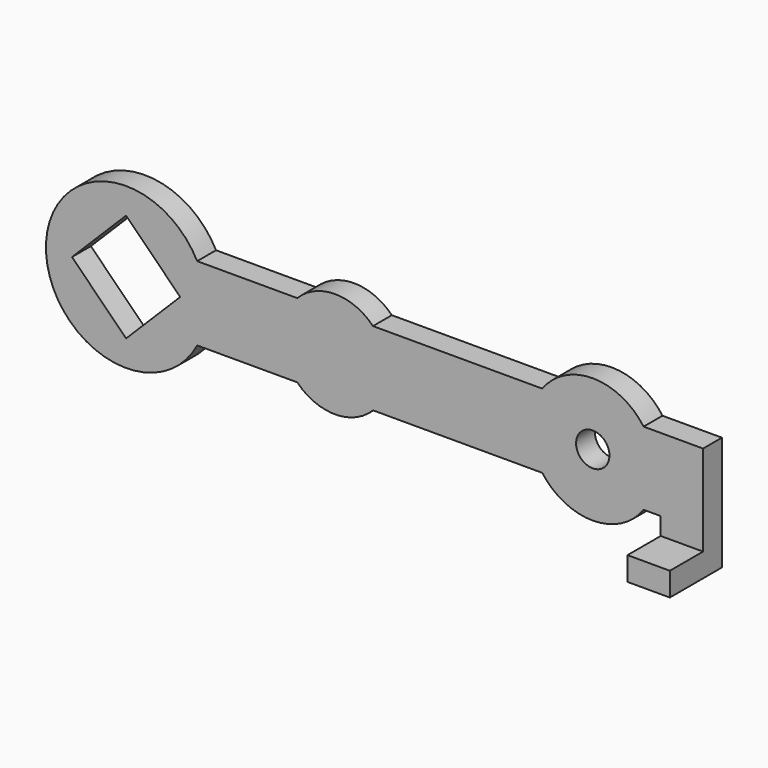
from build123d import *

# Parameters (mm, degrees)
F0_R     = 2.05
F0_W     = 5.2
F0_H     = 2.15
F1_DEPTH = 2.9
F0_H_2   = 2.9
F2_DEPTH = 8


with BuildPart() as f1:
    # F0 (on Front) → F1 (new body)
    with BuildSketch(Plane.XZ):
        with BuildLine():
            Line((25.45, 4.556051), (4.65, 4.556051))
            ThreePointArc((4.65, 4.556051), (0, 6.51), (-4.65, 4.556051))
            Line((-4.65, 4.556051), (-16.95, 4.556051))
            ThreePointArc((-16.95, 4.556051), (-35.532978, 0), (-16.95, -4.556051))
            Line((-16.95, -4.556051), (-4.65, -4.556051))
            ThreePointArc((-4.65, -4.556051), (0, -6.51), (4.65, -4.556051))
            Line((4.65, -4.556051), (25.45, -4.556051))
            ThreePointArc((25.45, -4.556051), (31.693638, -7.699915), (37.907447, -4.497499))
            Line((37.907447, -4.497499), (37.907447, 0))
            Line((37.907447, 0), (37.907447, 4.497499))
            ThreePointArc((37.907447, 4.497499), (31.693638, 7.699915), (25.45, 4.556051))
        make_face()
        Polygon((-32.329781, 0), (-25.682978, 6.646804), (-19.036174, 0), (-25.682978, -6.646804), align=None, mode=Mode.SUBTRACT)
        with Locations((31.657447, 0)):
            Circle(F0_R, mode=Mode.SUBTRACT)
        Polygon((45.207447, 4.497499), (37.907447, 4.497499), (37.907447, 0), (37.907447, -4.497499), (40.007447, -4.497499), (45.207447, -4.497499), align=None)
        with Locations((42.607447, -5.572499)):
            Rectangle(F0_W, F0_H)
    extrude(amount=F1_DEPTH)

    # F0 (on Front) → F2 (join)
    with BuildSketch(Plane.XZ):
        with Locations((42.607447, -8.097499)):
            Rectangle(F0_W, F0_H_2)
    extrude(amount=F2_DEPTH)


solid = f1.part
